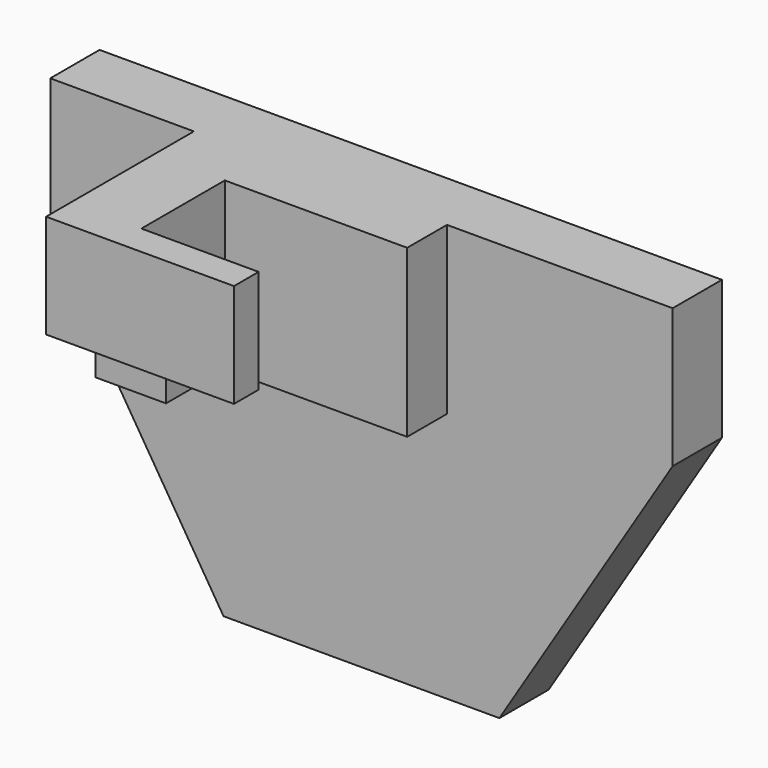
from build123d import *

# Parameters (mm, degrees)
F1_DEPTH = 7.874
F2_W     = 8.7442621589
F2_H     = 21.2777052075
F2_W_2   = 23.6095096916
F3_DEPTH = 6.35
F4_W     = 9.0357400477
F4_H     = 21.2777052075
F5_DEPTH = 17.272
F6_W     = 9.0357400477
F6_H     = 8.01557675
F7_DEPTH = 7.874
F8_W     = 3.937
F8_H     = 13.2621284574
F9_DEPTH = 14.986


with BuildPart() as f1:
    # F0 (on Front) → F1 (new body)
    with BuildSketch(Plane.XZ):
        Polygon((36.1429499462, 39.2034426332), (-43.4298366308, 39.2034426332), (-43.4298366308, 21.4234422892), (-21.2777052075, -14.1365574673), (13.9908185229, -14.1365574673), (36.1429499462, 21.4234422892), align=None)
    extrude(amount=F1_DEPTH)

    # F2 (on face) → F3 (join)
    with BuildSketch(Plane.XZ.offset(7.874)):
        with Locations((-20.6947550178, 28.5645900294)):
            Rectangle(F2_W, F2_H)
        with Locations((-4.5178690925, 28.5645900294)):
            Rectangle(F2_W_2, F2_H)
    extrude(amount=F3_DEPTH)

    # F4 (on face) → F5 (join)
    with BuildSketch(Plane.XZ.offset(14.224)):
        with Locations((-20.5490160733, 28.5645900294)):
            Rectangle(F4_W, F4_H)
    extrude(amount=F5_DEPTH)

    # F6 (on face) → F7 (cut)
    with BuildSketch(Plane.XZ.offset(31.496)):
        with Locations((-20.5490160733, 21.9335258007)):
            Rectangle(F6_W, F6_H)
    extrude(amount=-F7_DEPTH, mode=Mode.SUBTRACT)

    # F8 (on face) → F9 (join)
    with BuildSketch(Plane.YZ.offset(-16.0311460495)):
        with Locations((-29.5275, 32.5723784044)):
            Rectangle(F8_W, F8_H)
    extrude(amount=F9_DEPTH)


solid = f1.part
